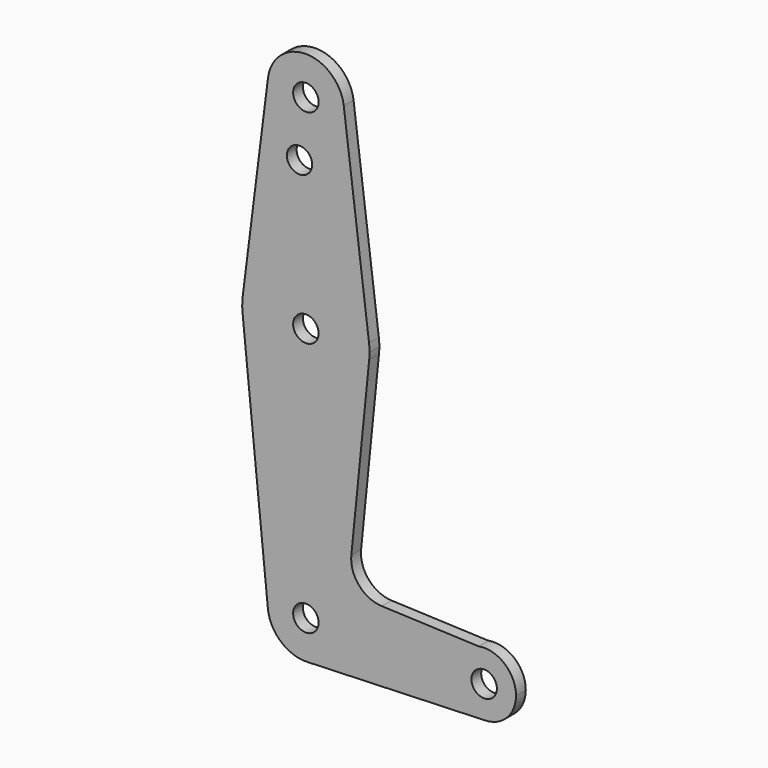
from build123d import *

# Parameters (mm, degrees)
F0_R     = 3.150683
F0_R_2   = 3.175
F1_DEPTH = 3.048


with BuildPart() as f1:
    # F0 (on Front) → F1 (new body)
    with BuildSketch(Plane.XZ):
        with BuildLine():
            ThreePointArc((9.450293, 115.490625), (9.506305, 114.896483), (9.525, 114.3))
            ThreePointArc((9.525, 114.3), (-0.596483, 104.793695), (-9.450293, 115.490625))
            Line((-9.450293, 115.490625), (-15.750488, 65.484375))
            ThreePointArc((-15.750488, 65.484375), (0, 79.375), (15.750488, 65.484375))
            Line((15.750488, 65.484375), (9.450293, 115.490625))
        make_face()
        with Locations((-1.5875, 100.0125)):
            Circle(F0_R, mode=Mode.SUBTRACT)
        with BuildLine():
            ThreePointArc((43.0461, 7.81236), (36.557694, -0.845825), (44.733482, -7.932436))
            ThreePointArc((44.733482, -7.932436), (50.162007, -5.511523), (52.3875, 0))
            ThreePointArc((52.3875, 0), (49.542173, 6.088816), (43.0461, 7.81236))
        make_face()
        with Locations((44.45, 0)):
            Circle(F0_R_2, mode=Mode.SUBTRACT)
        with BuildLine():
            ThreePointArc((15.795426, 61.9125), (0, 47.625), (-15.795426, 61.9125))
            Line((-15.795426, 61.9125), (-9.477255, -0.9525))
            ThreePointArc((-9.477255, -0.9525), (-0.476848, 9.513056), (9.525, 0))
            ThreePointArc((9.525, 0), (6.854408, -6.613827), (0.340179, -9.518923))
            Line((0.340179, -9.518923), (44.733482, -7.932436))
            ThreePointArc((44.733482, -7.932436), (36.557694, -0.845825), (43.0461, 7.81236))
            Line((43.0461, 7.81236), (18.912735, 8.776797))
            ThreePointArc((18.912735, 8.776797), (13.237923, 11.501944), (11.331974, 17.501716))
            Line((11.331974, 17.501716), (15.795426, 61.9125))
        make_face()
        with BuildLine():
            ThreePointArc((-9.450293, 115.490625), (-0.596483, 104.793695), (9.525, 114.3))
            ThreePointArc((9.525, 114.3), (9.506305, 114.896483), (9.450293, 115.490625))
            ThreePointArc((9.450293, 115.490625), (0, 123.825), (-9.450293, 115.490625))
        make_face()
        with Locations((0, 114.3)):
            Circle(F0_R_2, mode=Mode.SUBTRACT)
        with BuildLine():
            ThreePointArc((15.875, 63.5), (15.843841, 64.494139), (15.750488, 65.484375))
            ThreePointArc((15.750488, 65.484375), (0, 79.375), (-15.750488, 65.484375))
            ThreePointArc((-15.750488, 65.484375), (-15.873744, 63.699705), (-15.795426, 61.9125))
            ThreePointArc((-15.795426, 61.9125), (0, 47.625), (15.795426, 61.9125))
            ThreePointArc((15.795426, 61.9125), (15.855094, 62.705253), (15.875, 63.5))
        make_face()
        with Locations((0, 63.5)):
            Circle(F0_R_2, mode=Mode.SUBTRACT)
        with BuildLine():
            ThreePointArc((9.525, 0), (-0.476848, 9.513056), (-9.477255, -0.9525))
            ThreePointArc((-9.477255, -0.9525), (-6.262383, -7.17692), (0.340179, -9.518923))
            ThreePointArc((0.340179, -9.518923), (6.854408, -6.613827), (9.525, 0))
        make_face()
        Circle(F0_R_2, mode=Mode.SUBTRACT)
    extrude(amount=F1_DEPTH)


solid = f1.part
